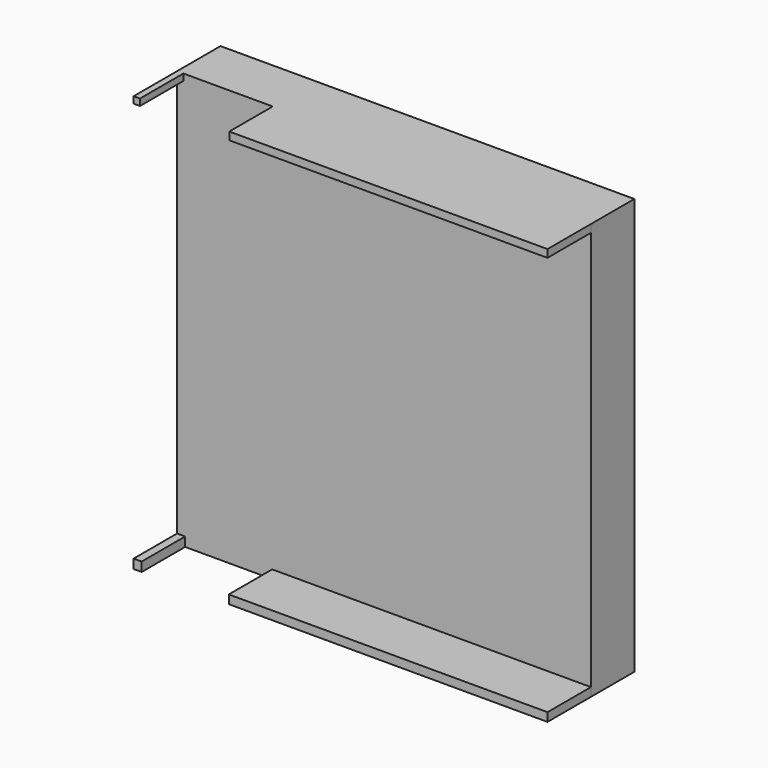
from build123d import *

# Parameters (mm, degrees)
F0_W     = 305
F0_H     = 306.783354
F1_DEPTH = 40
F2_W     = 4.656996
F2_H     = 4.847504
F3_DEPTH = 40
F4_W     = 234.520369
F4_H     = 5.697318
F5_DEPTH = 40
F6_W     = 5.924162
F6_H     = 6.802148
F7_DEPTH = 40
F8_W     = 234.898739
F8_H     = 6.330257
F9_DEPTH = 40


with BuildPart() as f1:
    # F0 (on Front) → F1 (new body)
    with BuildSketch(Plane.XZ):
        with Locations((152.5, 153.391677)):
            Rectangle(F0_W, F0_H)
    extrude(amount=F1_DEPTH)

    # F2 (on face) → F3 (join)
    with BuildSketch(Plane.XZ.offset(40)):
        with Locations((2.328498, 304.359602)):
            Rectangle(F2_W, F2_H)
    extrude(amount=F3_DEPTH)

    # F4 (on face) → F5 (join)
    with BuildSketch(Plane.XZ.offset(40)):
        with Locations((187.739815, 303.934695)):
            Rectangle(F4_W, F4_H)
    extrude(amount=F5_DEPTH)

    # F6 (on face) → F7 (join)
    with BuildSketch(Plane.XZ.offset(40)):
        with Locations((2.962081, 3.401074)):
            Rectangle(F6_W, F6_H)
    extrude(amount=F7_DEPTH)

    # F8 (on face) → F9 (join)
    with BuildSketch(Plane.XZ.offset(40)):
        with Locations((187.550631, 3.165128)):
            Rectangle(F8_W, F8_H)
    extrude(amount=F9_DEPTH)


solid = f1.part
